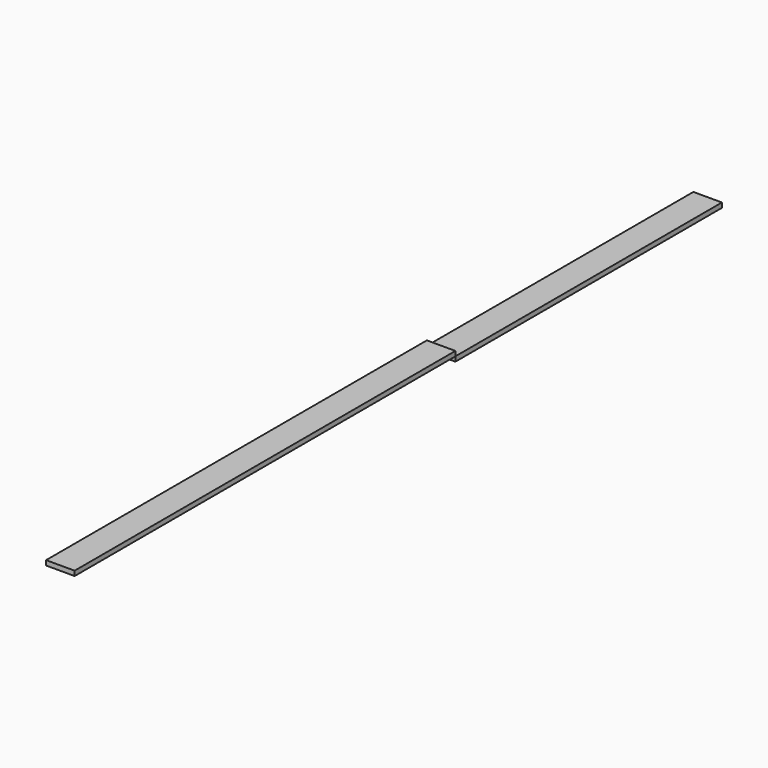
from build123d import *

# Parameters (mm, degrees)
F0_W     = 1000
F0_H     = 10
F0_W_2   = 700
F1_DEPTH = 30


with BuildPart() as f1:
    # F0 (on Right) → F1 (new body, symmetric)
    with BuildSketch(Plane.YZ):
        with Locations((-500, 5)):
            Rectangle(F0_W, F0_H)
        with Locations((350, -5)):
            Rectangle(F0_W_2, F0_H)
    extrude(amount=F1_DEPTH, both=True)


solid = f1.part
